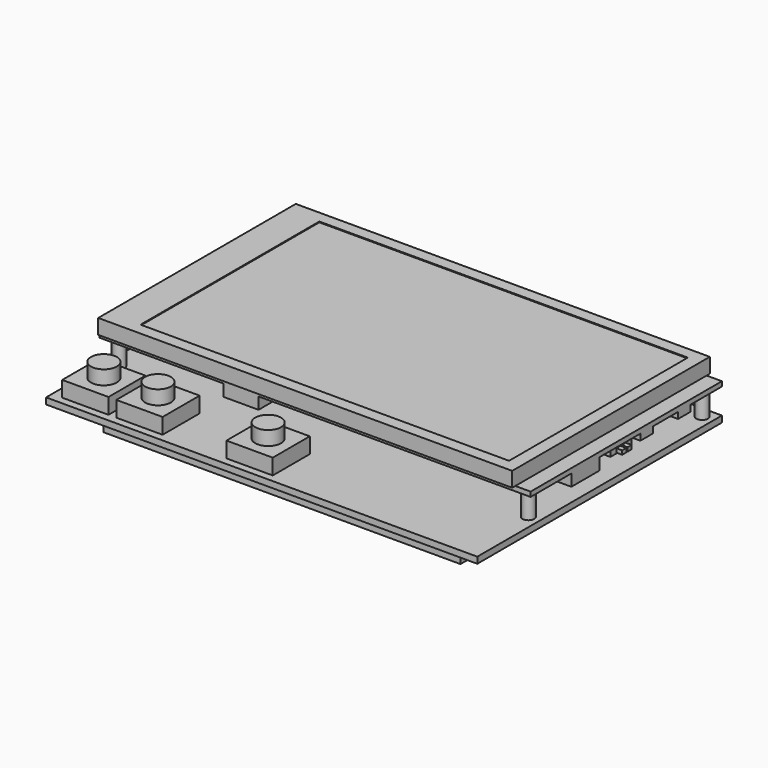
from build123d import *

# Parameters (mm, degrees)
SKETCH001_W   = 110
SKETCH001_H   = 78
PAD_DEPTH     = 1.6
SKETCH009_R   = 1.5
PAD001_DEPTH  = 6.5
SKETCH010_W   = 110
SKETCH010_H   = 61
PAD002_DEPTH  = 1.2
SKETCH011_W   = 105.6
SKETCH011_H   = 63
PAD003_DEPTH  = 3.8
SKETCH012_W   = 94
SKETCH012_H   = 57
POCKET_DEPTH  = 0.2
SKETCH013_W   = 9
SKETCH013_H   = 6.4
SKETCH013_W_2 = 6.4
SKETCH013_H_2 = 9
PAD004_DEPTH  = 3
SKETCH014_W   = 15
SKETCH014_H   = 14.5
PAD005_DEPTH  = 1.8
SKETCH015_W   = 11
SKETCH015_H   = 0.9
PAD006_DEPTH  = 5.4
SKETCH016_W   = 2.7
SKETCH016_H   = 6.8
SKETCH016_W_2 = 2.6
SKETCH016_H_2 = 4
PAD007_DEPTH  = 1.6
SKETCH017_W   = 1.3
SKETCH017_H   = 1
PAD008_DEPTH  = 1.5
SKETCH018_W   = 11.8
SKETCH018_H   = 11.8
PAD009_DEPTH  = 4
SKETCH019_R   = 3.3
PAD010_DEPTH  = 3.6
SKETCH020_W   = 91
SKETCH020_H   = 66
PAD011_DEPTH  = 5.8


with BuildPart() as part:
    # Sketch001 → Pad (new body)
    with BuildSketch(Plane.XY):
        with Locations((0, -8.5)):
            Rectangle(SKETCH001_W, SKETCH001_H)
    extrude(amount=PAD_DEPTH)

    # Sketch009 (on Face6 of Pad) → Pad001 (join)
    with BuildSketch(Plane.XY.offset(1.6)):
        with Locations((-52.2, 27.7)):
            Circle(SKETCH009_R)
        with Locations((-52.2, -27.7)):
            Circle(SKETCH009_R)
        with Locations((52.2, -27.7)):
            Circle(SKETCH009_R)
        with Locations((52.2, 27.7)):
            Circle(SKETCH009_R)
    extrude(amount=PAD001_DEPTH)

    # Sketch010 (on Face12 of Pad001) → Pad002 (join)
    with BuildSketch(Plane.XY.offset(8.1)):
        Rectangle(SKETCH010_W, SKETCH010_H)
    extrude(amount=PAD002_DEPTH)

    # Sketch011 (on Face5 of Pad002) → Pad003 (join)
    with BuildSketch(Plane.XY.offset(9.3)):
        with Locations((-1.7, 0)):
            Rectangle(SKETCH011_W, SKETCH011_H)
    extrude(amount=PAD003_DEPTH)

    # Sketch012 (on Face19 of Pad003) → Pocket (cut)
    with BuildSketch(Plane.XY.offset(13.1)):
        with Locations((0.9, 0)):
            Rectangle(SKETCH012_W, SKETCH012_H)
    extrude(amount=-POCKET_DEPTH, mode=Mode.SUBTRACT)

    # Sketch013 (on Face4 of Pocket) → Pad004 (join)
    with BuildSketch(Plane(origin=(0, 0, 8.1), x_dir=(1, 0, 0), z_dir=(0, 0, -1))):
        with Locations((-18.9, 27.3)):
            Rectangle(SKETCH013_W, SKETCH013_H)
        with Locations((51.8, 13)):
            Rectangle(SKETCH013_W_2, SKETCH013_H_2)
    extrude(amount=PAD004_DEPTH)

    # Sketch014 (on Face4 of Pad004) → Pad005 (join)
    with BuildSketch(Plane(origin=(0, 0, 8.1), x_dir=(1, 0, 0), z_dir=(0, 0, -1))):
        with Locations((38.9, -23.25)):
            Rectangle(SKETCH014_W, SKETCH014_H)
    extrude(amount=PAD005_DEPTH)

    # Sketch015 (on Face5 of Pad005) → Pad006 (join)
    with BuildSketch(Plane(origin=(0, 30.5, 0), x_dir=(-1, 0, 0), z_dir=(0, 1, 0))):
        with Locations((-37.9, 7.15)):
            Rectangle(SKETCH015_W, SKETCH015_H)
    extrude(amount=PAD006_DEPTH)

    # Sketch016 (on Face4 of Pad006) → Pad007 (join)
    with BuildSketch(Plane(origin=(0, 0, 8.1), x_dir=(1, 0, 0), z_dir=(0, 0, -1))):
        with Locations((53.35, 1.3)):
            Rectangle(SKETCH016_W, SKETCH016_H)
        with Locations((53.7, -6.5)):
            Rectangle(SKETCH016_W_2, SKETCH016_H_2)
        with Locations((53.7, -18.5)):
            Rectangle(SKETCH016_W_2, SKETCH016_H_2)
    extrude(amount=PAD007_DEPTH)

    # Sketch017 (on Face31 of Pad007) → Pad008 (join)
    with BuildSketch(Plane.YZ.offset(54.7)):
        with Locations((-2.15, 7.2)):
            Rectangle(SKETCH017_W, SKETCH017_H)
        with Locations((-0.45, 7.2)):
            Rectangle(SKETCH017_W, SKETCH017_H)
    extrude(amount=PAD008_DEPTH)

    # Sketch018 (on Face50 of Pad008) → Pad009 (join)
    with BuildSketch(Plane.XY.offset(1.6)):
        with Locations((-4.6, -39.7)):
            Rectangle(SKETCH018_W, SKETCH018_H)
        with Locations((-32.7, -39.7)):
            Rectangle(SKETCH018_W, SKETCH018_H)
        with Locations((-46.5, -39.7)):
            Rectangle(SKETCH018_W, SKETCH018_H)
    extrude(amount=PAD009_DEPTH)

    # Sketch019 (on Face87 of Pad009) → Pad010 (join)
    with BuildSketch(Plane.XY.offset(5.6)):
        with Locations((-46.5, -39.7)):
            Circle(SKETCH019_R)
        with Locations((-32.7, -39.7)):
            Circle(SKETCH019_R)
        with Locations((-4.6, -39.7)):
            Circle(SKETCH019_R)
    extrude(amount=PAD010_DEPTH)

    # Sketch020 (on Face85 of Pad010) → Pad011 (join)
    with BuildSketch(Plane(origin=(0, 0, 0), x_dir=(1, 0, 0), z_dir=(0, 0, -1))):
        with Locations((0, 8)):
            Rectangle(SKETCH020_W, SKETCH020_H)
    extrude(amount=PAD011_DEPTH)


with BuildPart() as part_1:
    # Body001 placement: moved
    add(part.part.moved(Location((0, 0, 8.5))))


solid = part_1.part
